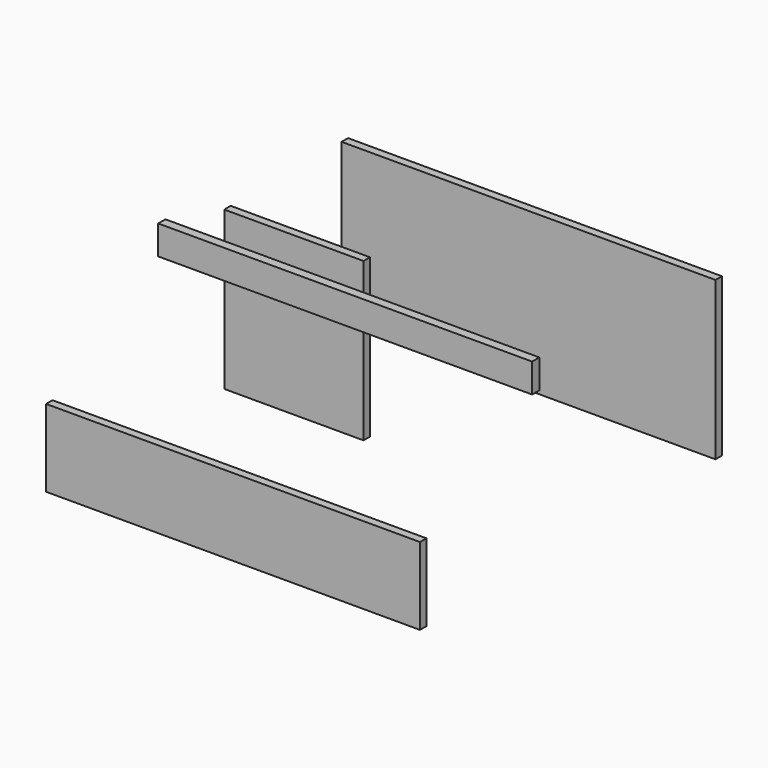
from build123d import *

# Parameters (mm, degrees)
F1_W     = 5800
F1_H     = 125
F2_DEPTH = 1200
F3_W     = 2160
F3_H     = 125
F4_DEPTH = 2450
F6_START = 2330
F5_W     = 5800
F5_H     = 140
F6_DEPTH = 450
F7_W     = 5800
F7_H     = 125
F8_DEPTH = 2450


with BuildPart() as f2:
    # F1 (on face) → F2 (new body)
    with BuildSketch(Plane.XY):
        with Locations((2900, 937.5)):
            Rectangle(F1_W, F1_H)
    extrude(amount=F2_DEPTH)


with BuildPart() as f4:
    # F3 (on face) → F4 (new body)
    with BuildSketch(Plane.XY):
        with Locations((1080, 4392.5)):
            Rectangle(F3_W, F3_H)
    extrude(amount=F4_DEPTH)


with BuildPart() as f6:
    # F5 (on face) → F6 (new body)
    with BuildSketch(Plane.XY.offset(F6_START)):
        with Locations((2900, 3120)):
            Rectangle(F5_W, F5_H)
    extrude(amount=F6_DEPTH)


with BuildPart() as f8:
    # F7 (on face) → F8 (new body)
    with BuildSketch(Plane.XY):
        with Locations((2900, 6667.5)):
            Rectangle(F7_W, F7_H)
    extrude(amount=F8_DEPTH)


solid = Compound([f2.part, f4.part, f6.part, f8.part])
